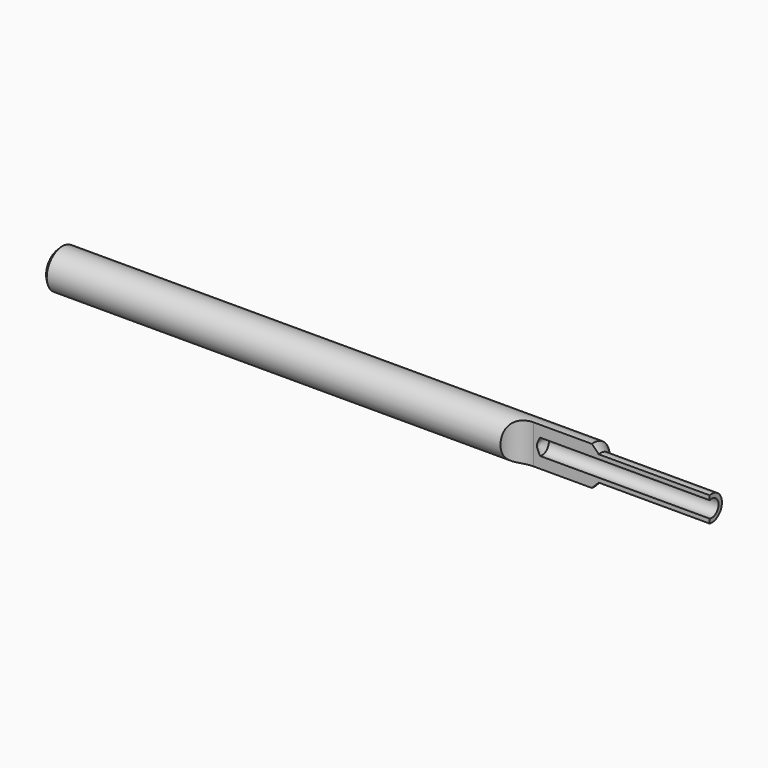
from build123d import *

# Parameters (mm, degrees)
F4_DEPTH = 25
F5_SIZE  = 0.5


with BuildPart() as f1:
    # F0 (on Front) → F1 (revolve)
    with BuildSketch(Plane.XZ):
        Polygon((-81.95, 3), (-81.95, 0), (-8.641222, 0), (-7.95, 1.3), (18.05, 1.3), (18.05, 1.95), (1.05, 1.95), (0, 3), align=None)
    revolve(axis=Axis((-31.95, 0, 0), (-1, 0, 0)))

    # F3 (on offset) → F4 (cut)
    with BuildSketch(Plane.XY.offset(3)):
        with BuildLine():
            ThreePointArc((-8.95, -0.39), (-11.07132, -5.51132), (-5.95, -3.39))
            Line((-5.95, -3.39), (-8.95, -3.39))
            Line((-8.95, -3.39), (-8.95, -0.39))
        make_face()
        with BuildLine():
            ThreePointArc((-8.95, -0.39), (-6.82868, -1.26868), (-5.95, -3.39))
            Line((-5.95, -3.39), (18.05, -3.39))
            Line((18.05, -3.39), (18.05, -1.95))
            Line((18.05, -1.95), (18.05, -0.39))
            Line((18.05, -0.39), (-8.95, -0.39))
        make_face()
        with BuildLine():
            Line((-8.95, -3.39), (-5.95, -3.39))
            ThreePointArc((-5.95, -3.39), (-6.82868, -1.26868), (-8.95, -0.39))
            Line((-8.95, -0.39), (-8.95, -3.39))
        make_face()
    extrude(amount=-F4_DEPTH, mode=Mode.SUBTRACT)

    # F5
    f5_edges = [f1.edges().sort_by_distance(p)[0] for p in [
        (-81.95, 0, -3),
    ]]
    chamfer(f5_edges, length=F5_SIZE)


solid = f1.part
